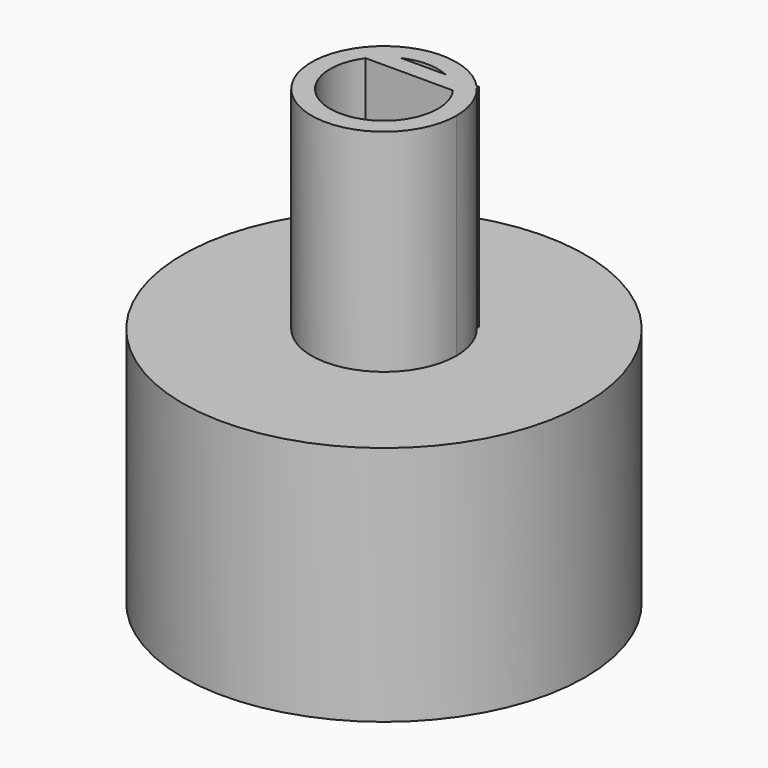
from build123d import *

# Parameters (mm, degrees)
F0_R     = 10.8555352801
F1_DEPTH = 13
F2_T     = -2.5
F3_R     = 3.906627993
F4_DEPTH = 11.4
F5_T     = -1
F6_W     = 5.8806912699
F6_H     = 0.9425205584
F7_DEPTH = 12.4


with BuildPart() as f1:
    # F0 (on Top) → F1 (new body)
    with BuildSketch(Plane.XY):
        Circle(F0_R)
    extrude(amount=F1_DEPTH)

    # F2
    f2_openings = [f1.faces().sort_by_distance(p)[0] for p in [
        (0, 0, 0),
    ]]
    offset(amount=F2_T, openings=f2_openings)

    # F3 (on face) → F4 (join)
    with BuildSketch(Plane.XY.offset(13)):
        Circle(F3_R)
    extrude(amount=F4_DEPTH)

    # F5
    f5_openings = [f1.faces().sort_by_distance(p)[0] for p in [
        (0, 0, 24.4),
    ]]
    offset(amount=F5_T, openings=f5_openings, kind=Kind.INTERSECTION)

    # F6 (on face) → F7 (join)
    with BuildSketch(Plane.XY.offset(24.4)):
        with Locations((0.0686239588, 2.1773161103)):
            Rectangle(F6_W, F6_H)
    extrude(amount=-F7_DEPTH)


solid = f1.part
